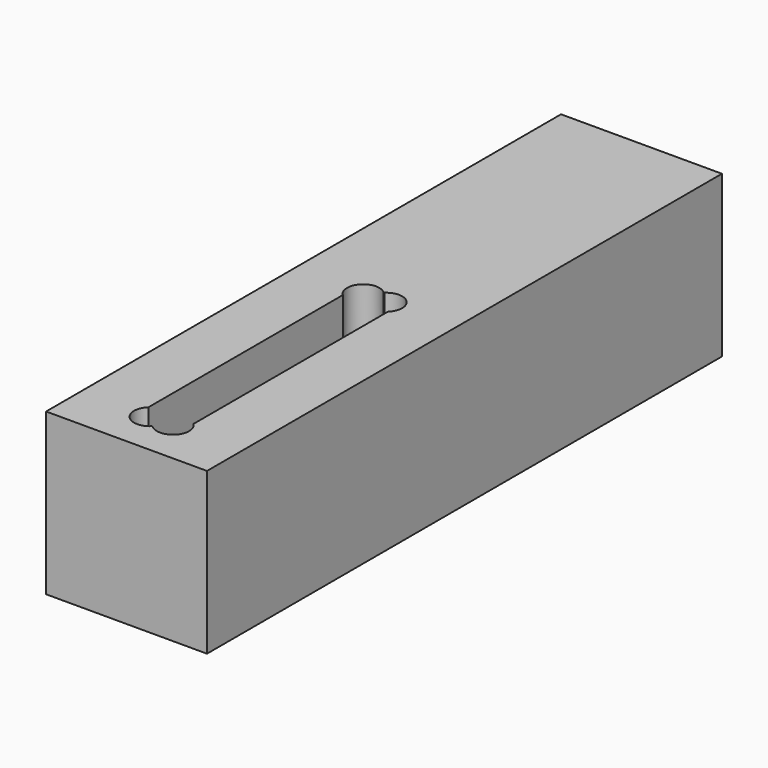
from build123d import *

# Parameters (mm, degrees)
F0_W     = 31.75
F0_H     = 127
F1_DEPTH = 31.75
F2_W     = 8.89
F2_H     = 57.15
F3_DEPTH = 10.16
F5_DEPTH = 10.16


with BuildPart() as f1:
    # F0 (on Top) → F1 (new body)
    with BuildSketch(Plane.XY):
        with Locations((15.875, 63.5)):
            Rectangle(F0_W, F0_H)
    extrude(amount=F1_DEPTH)

    # F2 (on face) → F3 (cut)
    with BuildSketch(Plane.XY.offset(31.75)):
        with Locations((15.875, 34.925)):
            Rectangle(F2_W, F2_H)
    extrude(amount=-F3_DEPTH, mode=Mode.SUBTRACT)

    # F4 (on face) → F5 (cut, through all)
    with BuildSketch(Plane.XY.offset(31.75)):
        with BuildLine():
            ThreePointArc((15.875, 58.966207), (19.339109, 58.263056), (21.306743, 61.199532))
            ThreePointArc((21.306743, 61.199532), (19.339109, 64.136008), (15.875, 63.432856))
            ThreePointArc((15.875, 63.432856), (16.554733, 62.406898), (16.793257, 61.199532))
            ThreePointArc((16.793257, 61.199532), (16.554733, 59.992165), (15.875, 58.966207))
        make_face()
        with BuildLine():
            ThreePointArc((15.875, 58.966207), (14.956743, 61.199532), (15.875, 63.432856))
            ThreePointArc((15.875, 63.432856), (10.443257, 61.199532), (15.875, 58.966207))
        make_face()
        with BuildLine():
            ThreePointArc((15.875, 6.417144), (19.339109, 5.713992), (21.306743, 8.650468))
            ThreePointArc((21.306743, 8.650468), (19.339109, 11.586944), (15.875, 10.883793))
            ThreePointArc((15.875, 10.883793), (16.554733, 9.857835), (16.793257, 8.650468))
            ThreePointArc((16.793257, 8.650468), (16.554733, 7.443102), (15.875, 6.417144))
        make_face()
        with BuildLine():
            ThreePointArc((15.875, 6.417144), (14.956743, 8.650468), (15.875, 10.883793))
            ThreePointArc((15.875, 10.883793), (10.443257, 8.650468), (15.875, 6.417144))
        make_face()
    extrude(amount=-F5_DEPTH, mode=Mode.SUBTRACT)


solid = f1.part
